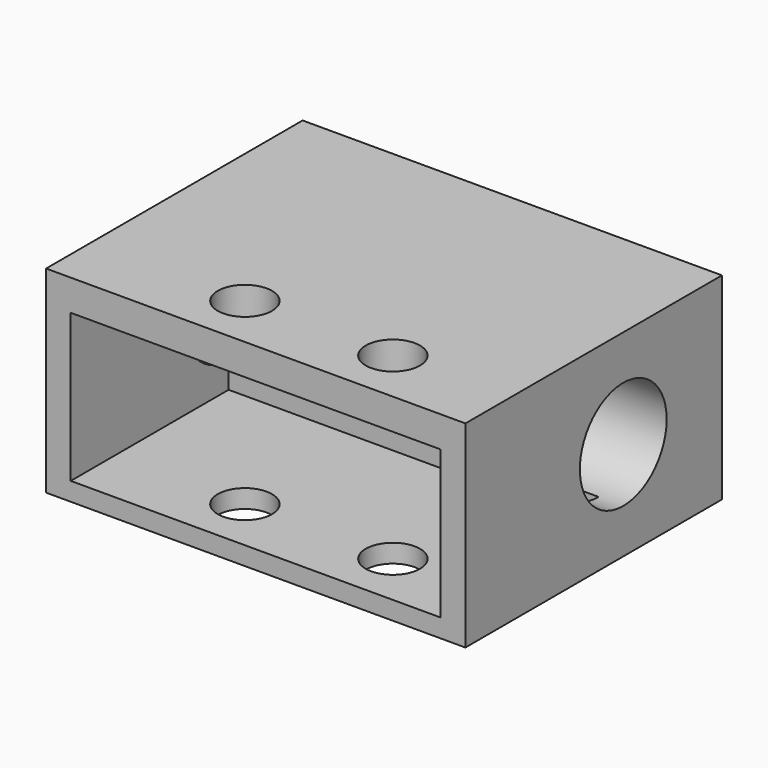
from build123d import *

# Parameters (mm, degrees)
F0_W          = 17
F0_H          = 13
F0_W_2        = 12.7
F0_H_2        = 7
F0_R          = 1.1
F1_DEPTH      = 8
F2_W          = 15
F2_H          = 6
F3_DEPTH      = 4.501
F3_DEPTH_BACK = 3.5
F4_R          = 2.2
F5_DEPTH      = 9.301
F5_DEPTH_BACK = 7.701


with BuildPart() as f1:
    # F0 (on Top) → F1 (new body)
    with BuildSketch(Plane.XY):
        with Locations((-0.8, 2)):
            Rectangle(F0_W, F0_H)
        Rectangle(F0_W_2, F0_H_2, mode=Mode.SUBTRACT)
        Rectangle(F0_W_2, F0_H_2)
        with Locations((-3, -2.3)):
            Circle(F0_R, mode=Mode.SUBTRACT)
        with Locations((3, -2.3)):
            Circle(F0_R, mode=Mode.SUBTRACT)
    extrude(amount=F1_DEPTH)

    # F2 (on Front) → F3 (cut, two sides)
    with BuildSketch(Plane.XZ) as f3_sk:
        with Locations((-0.8, 3.7450972334)):
            Rectangle(F2_W, F2_H)
    extrude(amount=F3_DEPTH, mode=Mode.SUBTRACT)
    extrude(f3_sk.sketch, amount=-F3_DEPTH_BACK, mode=Mode.SUBTRACT)

    # F4 (on Right) → F5 (cut, two sides)
    with BuildSketch(Plane.YZ) as f5_sk:
        with Locations((3.5, 4)):
            Circle(F4_R)
    extrude(amount=-F5_DEPTH, mode=Mode.SUBTRACT)
    extrude(f5_sk.sketch, amount=F5_DEPTH_BACK, mode=Mode.SUBTRACT)


solid = f1.part
